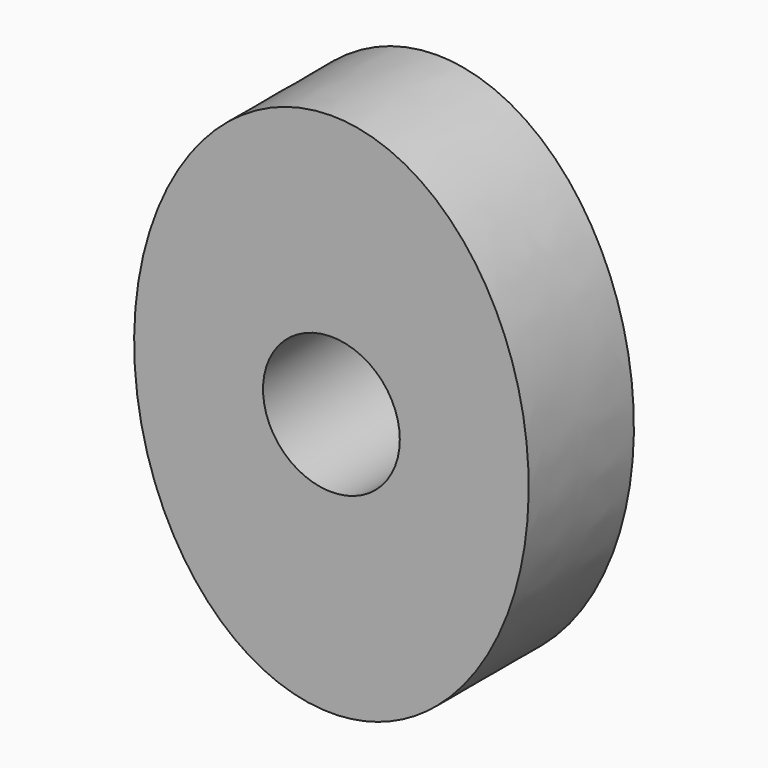
from build123d import *

# Parameters (mm, degrees)
F1_DEPTH = 12.7
F2_R     = 6.604
F3_DEPTH = 12.7


with BuildPart() as f1:
    # F0 (on Front) → F1 (new body)
    with BuildSketch(Plane.XZ):
        with BuildLine():
            add(Edge.make_bspline(
                [(0, 25.4), (-32.9955678842, 25.4), (-16.4977839421, -12.7), (0, -50.8), (16.4977839421, -12.7), (32.9955678842, 25.4), (0, 25.4)],
                knots=[0, 0, 0, 2.0943951024, 2.0943951024, 4.1887902048, 4.1887902048, 6.2831853072, 6.2831853072, 6.2831853072], degree=2, weights=[1, 0.5, 1, 0.5, 1, 0.5, 1]))
        make_face()
    extrude(amount=F1_DEPTH)

    # F2 (on face) → F3 (cut, symmetric)
    with BuildSketch(Plane.XZ.offset(12.7)):
        Circle(F2_R)
    extrude(amount=F3_DEPTH, both=True, mode=Mode.SUBTRACT)


solid = f1.part
